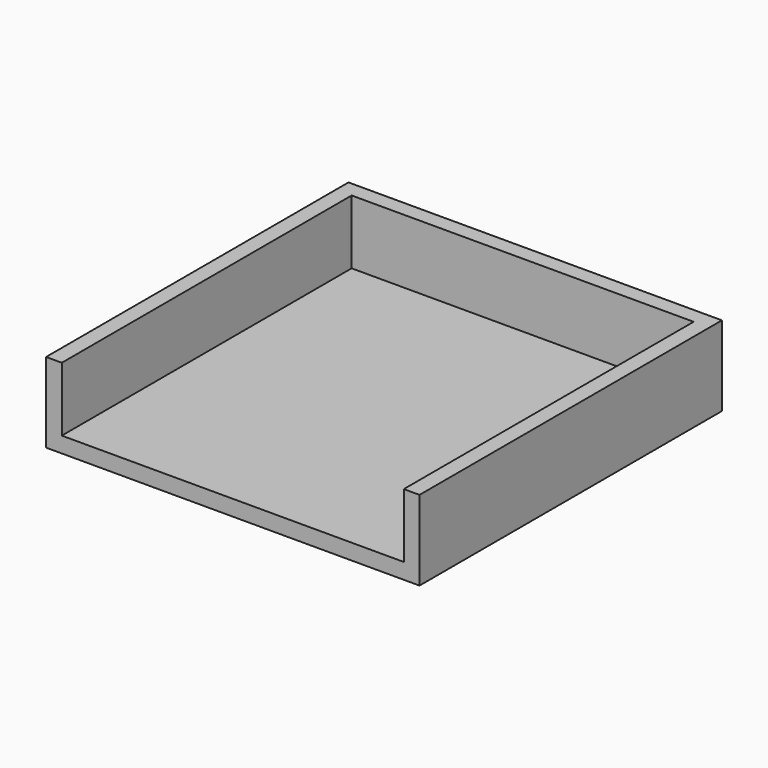
from build123d import *

# Parameters (mm, degrees)
F0_W     = 150.8252
F0_H     = 152.6794
F1_DEPTH = 32.258
F2_T     = -6.35


with BuildPart() as f1:
    # F0 (on Top) → F1 (new body)
    with BuildSketch(Plane.XY):
        Rectangle(F0_W, F0_H)
    extrude(amount=F1_DEPTH)

    # F2
    f2_openings = [f1.faces().sort_by_distance(p)[0] for p in [
        (0, 0, 32.258),
        (0, -76.3397, 16.129),
    ]]
    offset(amount=F2_T, openings=f2_openings)


solid = f1.part
